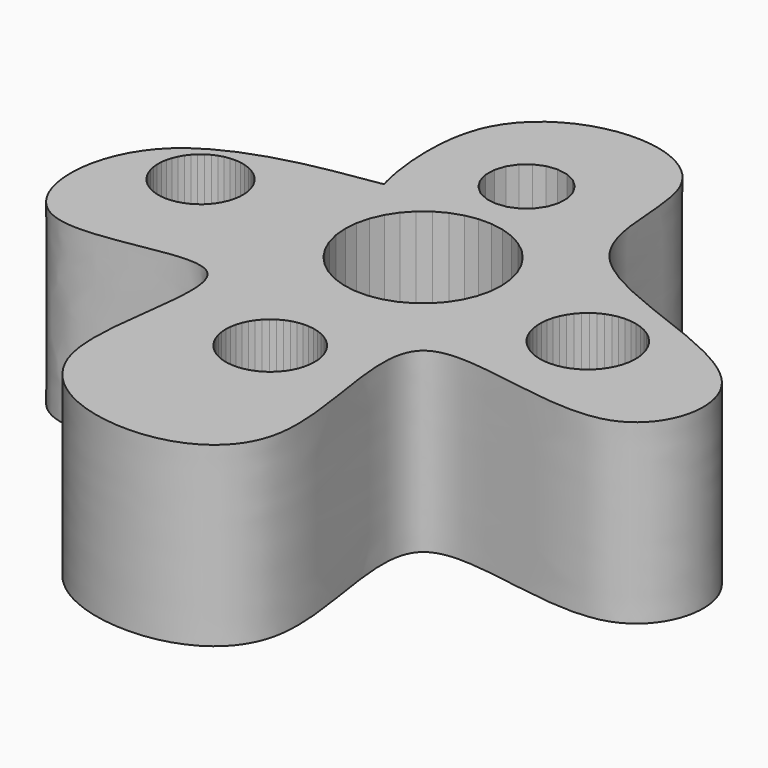
from build123d import *

# Parameters (mm, degrees)
F1_DEPTH = 32


with BuildPart() as f1:
    # F0 (on Top) → F1 (new body)
    with BuildSketch(Plane.XY):
        with BuildLine():
            add(Edge.make_bspline(
                [(-18.3749999851, 57.6249994338), (-21.1831112371, 50.0456273998), (-18.7971444727, 37.1581841171), (-17.5061854593, 35.726676673), (-57.502726792, 33.9018894006), (-56.1661655163, -11.168143715), (-9.6621938549, 11.8468057403), (-28.8025759983, -35.5355459374), (-0.0568739022, -48.575044984), (25.5787575912, -36.4487214325), (4.8135252466, 13.1183929517), (55.6634166462, -9.8868816763), (65.4802924601, 26.023571664), (11.4290052202, 31.7559795515), (19.7947783962, 63.7423600931), (-0.3893997894, 72.9518543158), (-15.4870740222, 65.4197993242), (-18.3749999851, 57.6249994338)],
                knots=[0, 0, 0, 0, 0.0628236558, 0.072575789, 0.1509051716, 0.2210611224, 0.2940393321, 0.3709934558, 0.4391768774, 0.5028610105, 0.5816361985, 0.6620542764, 0.7224552393, 0.8115589345, 0.8787111474, 0.9353907127, 1, 1, 1, 1], degree=3))
        make_face()
        Polygon((1.5020144703, -19.998836884), (0.5033173619, -20.1250016689), (-0.5033173619, -20.1250016689), (-1.5020144703, -19.998836884), (-2.4770239133, -19.7484970081), (-3.4129692094, -19.3779300506), (-4.2950899423, -18.8929800739), (-5.1094745411, -18.3012950288), (-5.843279674, -17.6122061418), (-6.4849327959, -16.8365807565), (-7.0243146537, -15.9866509483), (-7.4529188733, -15.0758206182), (-7.7639861101, -14.1184541045), (-7.952610648, -13.1296496491), (-8.0158177653, -12.125001289), (-7.952610648, -11.1203529288), (-7.7639861101, -10.1315484734), (-7.4529188733, -9.1741819597), (-7.0243146537, -8.2633516296), (-6.4849327959, -7.4134218214), (-5.843279674, -6.6377964361), (-5.1094745411, -5.9487075491), (-4.2950899423, -5.357022504), (-3.4129692094, -4.8720725273), (-2.4770239133, -4.5015055698), (-1.5020144703, -4.2511656939), (-0.5033173619, -4.125000909), (0.5033173619, -4.125000909), (1.5020144703, -4.2511656939), (2.4770239133, -4.5015055698), (3.4129692094, -4.8720725273), (4.2950899423, -5.357022504), (5.1094745411, -5.9487075491), (5.843279674, -6.6377964361), (6.4849327959, -7.4134218214), (7.0243146537, -8.2633516296), (7.4529188733, -9.1741819597), (7.7639861101, -10.1315484734), (7.952610648, -11.1203529288), (8.0158177653, -12.125001289), (7.952610648, -13.1296496491), (7.7639861101, -14.1184541045), (7.4529188733, -15.0758206182), (7.0243146537, -15.9866509483), (6.4849327959, -16.8365807565), (5.843279674, -17.6122061418), (5.1094745411, -18.3012950288), (4.2950899423, -18.8929800739), (3.4129692094, -19.3779300506), (2.4770239133, -19.7484970081), align=None, mode=Mode.SUBTRACT)
        Polygon((-31.9221387459, 19.7365742792), (-32.1862562673, 18.8154026109), (-32.5637445671, 17.9345973593), (-33.0486504292, 17.1080493495), (-33.6333265985, 16.3487937373), (-34.3085523826, 15.6688044373), (-35.0636790674, 15.0788052869), (-35.8867978541, 14.5881009251), (-36.7649276677, 14.204430053), (-37.6842198764, 13.9338433893), (-38.6301766931, 13.7806082475), (-39.5878798135, 13.7471412371), (-40.5422256874, 13.8339701529), (-41.4781637102, 14.0397256512), (-42.3809335802, 14.3611628447), (-43.2362980774, 14.7932124768), (-44.0307675925, 15.3290608669), (-44.7518128667, 15.9602573657), (-45.3880625855, 16.6768476274), (-45.9294827105, 17.4675305954), (-46.367534723, 18.319836727), (-46.695310281, 19.2203246453), (-46.9076401684, 20.1547931181), (-47.0011758157, 21.1085050192), (-46.9744421101, 22.0664197422), (-46.8278606581, 23.0134303998), (-46.5637431366, 23.9346020681), (-46.1862548368, 24.8154073196), (-45.7013489747, 25.6419553295), (-45.1166728054, 26.4012109417), (-44.4414470214, 27.0812002417), (-43.6863203365, 27.6711993921), (-42.8632015498, 28.1619037538), (-41.9850717363, 28.545574626), (-41.0657795275, 28.8161612896), (-40.1198227109, 28.9693964315), (-39.1621195905, 29.0028634419), (-38.2077737166, 28.916034526), (-37.2718356938, 28.7102790278), (-36.3690658237, 28.3888418343), (-35.5137013266, 27.9567922021), (-34.7192318115, 27.420943812), (-33.9981865372, 26.7897473132), (-33.3619368185, 26.0731570516), (-32.8205166935, 25.2824740836), (-32.382464681, 24.430167952), (-32.0546891229, 23.5296800336), (-31.8423592356, 22.5952115609), (-31.7488235882, 21.6414996598), (-31.7755572938, 20.6835849367), align=None, mode=Mode.SUBTRACT)
        Polygon((3.4485760188, 8.7568837759), (1.1600732645, 8.3750002086), (-1.1600732645, 8.3750002086), (-3.4485760188, 8.7568837759), (-5.6430106091, 9.5102341224), (-7.6835185803, 10.6145018143), (-9.514440194, 12.0395653076), (-11.0858326815, 13.7465525852), (-12.3548325521, 15.6889014839), (-13.2868247973, 17.813629789), (-13.8563870982, 20.0627804512), (-14.0479832799, 22.3750025034), (-13.8563870982, 24.6872245556), (-13.2868247973, 26.9363752178), (-12.3548325521, 29.0611035229), (-11.0858326815, 31.0034524216), (-9.514440194, 32.7104396992), (-7.6835185803, 34.1355031925), (-5.6430106091, 35.2397708844), (-3.4485760188, 35.9931212309), (-1.1600732645, 36.3750047982), (1.1600732645, 36.3750047982), (3.4485760188, 35.9931212309), (5.6430106091, 35.2397708844), (7.6835185803, 34.1355031925), (9.514440194, 32.7104396992), (11.0858326815, 31.0034524216), (12.3548325521, 29.0611035229), (13.2868247973, 26.9363752178), (13.8563870982, 24.6872245556), (14.0479832799, 22.3750025034), (13.8563870982, 20.0627804512), (13.2868247973, 17.813629789), (12.3548325521, 15.6889014839), (11.0858326815, 13.7465525852), (9.514440194, 12.0395653076), (7.6835185803, 10.6145018143), (5.6430106091, 9.5102341224), align=None, mode=Mode.SUBTRACT)
        Polygon((1.6902665054, 54.0046541124), (3.1217773151, 52.701728343), (4.1282252702, 51.0482770215), (4.6280739431, 49.1782529406), (4.5808285669, 47.2431543298), (3.990316681, 45.3997513702), (2.9043780466, 43.7973856063), (1.4109889534, 42.5658711828), (-0.3688650956, 41.8049780741), (-2.2909909108, 41.5763493147), (-4.1996692898, 41.8985070469), (-5.9402704617, 42.7453519673), (-7.3717812714, 44.0482777367), (-8.3782292265, 45.7017290582), (-8.8780778993, 47.5717531391), (-8.8308325231, 49.5068517499), (-8.2403206373, 51.3502547095), (-7.1543820029, 52.9526204733), (-5.6609929097, 54.1841348969), (-3.8811388606, 54.9450280056), (-1.9590130455, 55.173656765), (-0.0503346665, 54.8514990328), align=None, mode=Mode.SUBTRACT)
        Polygon((33.213381419, 8.2857290908), (32.1440486246, 8.4677141971), (31.1059566206, 8.7822872334), (30.1154767379, 9.2244871949), (29.1882294359, 9.7873403241), (28.3388379586, 10.461970091), (27.580697717, 11.2377371811), (26.9257650354, 12.1024072839), (26.3843685937, 13.0423440354), (25.965046537, 14.0427240716), (25.6744118247, 15.0877708017), (25.5170479398, 16.1610032144), (25.4954366048, 17.2454957936), (25.6099186434, 18.3241454433), (25.8586886054, 19.3799412143), (26.2378232399, 20.3962325766), (26.7413433672, 21.3569920082), (27.3613081742, 22.247067759), (28.0879404454, 23.0524228027), (28.909780756, 23.7603562091), (29.8138681932, 24.3597034456), (30.7859447581, 24.8410124482), (31.8106802226, 25.1966926864), (32.8719138963, 25.4211348704), (33.9529094901, 25.5107994128), (35.0366190578, 25.4642722503), (36.1059518522, 25.282287144), (37.1440438563, 24.9677141077), (38.134523739, 24.5255141462), (39.0617710409, 23.962661017), (39.9111625182, 23.2880312501), (40.6693027599, 22.51226416), (41.3242354414, 21.6475940572), (41.8656318832, 20.7076573057), (42.2849539399, 19.7072772695), (42.5755886522, 18.6622305394), (42.732952537, 17.5889981267), (42.754563872, 16.5045055475), (42.6400818334, 15.4258558978), (42.3913118715, 14.3700601268), (42.012177237, 13.3537687645), (41.5086571096, 12.3930093329), (40.8886923027, 11.5029335821), (40.1620600314, 10.6975785384), (39.3402197208, 9.989645132), (38.4361322836, 9.3902978955), (37.4640557187, 8.9089888929), (36.4393202542, 8.5533086547), (35.3780865806, 8.3288664707), (34.2970909867, 8.2392019283), align=None, mode=Mode.SUBTRACT)
        with BuildLine():
            add(Edge.make_bspline(
                [(-18.3749999851, 57.6249994338), (-21.1831112371, 50.0456273998), (-18.7971444727, 37.1581841171), (-17.5061854593, 35.726676673), (-57.502726792, 33.9018894006), (-56.1661655163, -11.168143715), (-9.6621938549, 11.8468057403), (-28.8025759983, -35.5355459374), (-0.0568739022, -48.575044984), (25.5787575912, -36.4487214325), (4.8135252466, 13.1183929517), (55.6634166462, -9.8868816763), (65.4802924601, 26.023571664), (11.4290052202, 31.7559795515), (19.7947783962, 63.7423600931), (-0.3893997894, 72.9518543158), (-15.4870740222, 65.4197993242), (-18.3749999851, 57.6249994338)],
                knots=[0, 0, 0, 0, 0.0628236558, 0.072575789, 0.1509051716, 0.2210611224, 0.2940393321, 0.3709934558, 0.4391768774, 0.5028610105, 0.5816361985, 0.6620542764, 0.7224552393, 0.8115589345, 0.8787111474, 0.9353907127, 1, 1, 1, 1], degree=3))
        make_face()
        Polygon((1.5020144703, -19.998836884), (0.5033173619, -20.1250016689), (-0.5033173619, -20.1250016689), (-1.5020144703, -19.998836884), (-2.4770239133, -19.7484970081), (-3.4129692094, -19.3779300506), (-4.2950899423, -18.8929800739), (-5.1094745411, -18.3012950288), (-5.843279674, -17.6122061418), (-6.4849327959, -16.8365807565), (-7.0243146537, -15.9866509483), (-7.4529188733, -15.0758206182), (-7.7639861101, -14.1184541045), (-7.952610648, -13.1296496491), (-8.0158177653, -12.125001289), (-7.952610648, -11.1203529288), (-7.7639861101, -10.1315484734), (-7.4529188733, -9.1741819597), (-7.0243146537, -8.2633516296), (-6.4849327959, -7.4134218214), (-5.843279674, -6.6377964361), (-5.1094745411, -5.9487075491), (-4.2950899423, -5.357022504), (-3.4129692094, -4.8720725273), (-2.4770239133, -4.5015055698), (-1.5020144703, -4.2511656939), (-0.5033173619, -4.125000909), (0.5033173619, -4.125000909), (1.5020144703, -4.2511656939), (2.4770239133, -4.5015055698), (3.4129692094, -4.8720725273), (4.2950899423, -5.357022504), (5.1094745411, -5.9487075491), (5.843279674, -6.6377964361), (6.4849327959, -7.4134218214), (7.0243146537, -8.2633516296), (7.4529188733, -9.1741819597), (7.7639861101, -10.1315484734), (7.952610648, -11.1203529288), (8.0158177653, -12.125001289), (7.952610648, -13.1296496491), (7.7639861101, -14.1184541045), (7.4529188733, -15.0758206182), (7.0243146537, -15.9866509483), (6.4849327959, -16.8365807565), (5.843279674, -17.6122061418), (5.1094745411, -18.3012950288), (4.2950899423, -18.8929800739), (3.4129692094, -19.3779300506), (2.4770239133, -19.7484970081), align=None, mode=Mode.SUBTRACT)
        Polygon((-31.9221387459, 19.7365742792), (-32.1862562673, 18.8154026109), (-32.5637445671, 17.9345973593), (-33.0486504292, 17.1080493495), (-33.6333265985, 16.3487937373), (-34.3085523826, 15.6688044373), (-35.0636790674, 15.0788052869), (-35.8867978541, 14.5881009251), (-36.7649276677, 14.204430053), (-37.6842198764, 13.9338433893), (-38.6301766931, 13.7806082475), (-39.5878798135, 13.7471412371), (-40.5422256874, 13.8339701529), (-41.4781637102, 14.0397256512), (-42.3809335802, 14.3611628447), (-43.2362980774, 14.7932124768), (-44.0307675925, 15.3290608669), (-44.7518128667, 15.9602573657), (-45.3880625855, 16.6768476274), (-45.9294827105, 17.4675305954), (-46.367534723, 18.319836727), (-46.695310281, 19.2203246453), (-46.9076401684, 20.1547931181), (-47.0011758157, 21.1085050192), (-46.9744421101, 22.0664197422), (-46.8278606581, 23.0134303998), (-46.5637431366, 23.9346020681), (-46.1862548368, 24.8154073196), (-45.7013489747, 25.6419553295), (-45.1166728054, 26.4012109417), (-44.4414470214, 27.0812002417), (-43.6863203365, 27.6711993921), (-42.8632015498, 28.1619037538), (-41.9850717363, 28.545574626), (-41.0657795275, 28.8161612896), (-40.1198227109, 28.9693964315), (-39.1621195905, 29.0028634419), (-38.2077737166, 28.916034526), (-37.2718356938, 28.7102790278), (-36.3690658237, 28.3888418343), (-35.5137013266, 27.9567922021), (-34.7192318115, 27.420943812), (-33.9981865372, 26.7897473132), (-33.3619368185, 26.0731570516), (-32.8205166935, 25.2824740836), (-32.382464681, 24.430167952), (-32.0546891229, 23.5296800336), (-31.8423592356, 22.5952115609), (-31.7488235882, 21.6414996598), (-31.7755572938, 20.6835849367), align=None, mode=Mode.SUBTRACT)
        Polygon((3.4485760188, 8.7568837759), (1.1600732645, 8.3750002086), (-1.1600732645, 8.3750002086), (-3.4485760188, 8.7568837759), (-5.6430106091, 9.5102341224), (-7.6835185803, 10.6145018143), (-9.514440194, 12.0395653076), (-11.0858326815, 13.7465525852), (-12.3548325521, 15.6889014839), (-13.2868247973, 17.813629789), (-13.8563870982, 20.0627804512), (-14.0479832799, 22.3750025034), (-13.8563870982, 24.6872245556), (-13.2868247973, 26.9363752178), (-12.3548325521, 29.0611035229), (-11.0858326815, 31.0034524216), (-9.514440194, 32.7104396992), (-7.6835185803, 34.1355031925), (-5.6430106091, 35.2397708844), (-3.4485760188, 35.9931212309), (-1.1600732645, 36.3750047982), (1.1600732645, 36.3750047982), (3.4485760188, 35.9931212309), (5.6430106091, 35.2397708844), (7.6835185803, 34.1355031925), (9.514440194, 32.7104396992), (11.0858326815, 31.0034524216), (12.3548325521, 29.0611035229), (13.2868247973, 26.9363752178), (13.8563870982, 24.6872245556), (14.0479832799, 22.3750025034), (13.8563870982, 20.0627804512), (13.2868247973, 17.813629789), (12.3548325521, 15.6889014839), (11.0858326815, 13.7465525852), (9.514440194, 12.0395653076), (7.6835185803, 10.6145018143), (5.6430106091, 9.5102341224), align=None, mode=Mode.SUBTRACT)
        Polygon((1.6902665054, 54.0046541124), (3.1217773151, 52.701728343), (4.1282252702, 51.0482770215), (4.6280739431, 49.1782529406), (4.5808285669, 47.2431543298), (3.990316681, 45.3997513702), (2.9043780466, 43.7973856063), (1.4109889534, 42.5658711828), (-0.3688650956, 41.8049780741), (-2.2909909108, 41.5763493147), (-4.1996692898, 41.8985070469), (-5.9402704617, 42.7453519673), (-7.3717812714, 44.0482777367), (-8.3782292265, 45.7017290582), (-8.8780778993, 47.5717531391), (-8.8308325231, 49.5068517499), (-8.2403206373, 51.3502547095), (-7.1543820029, 52.9526204733), (-5.6609929097, 54.1841348969), (-3.8811388606, 54.9450280056), (-1.9590130455, 55.173656765), (-0.0503346665, 54.8514990328), align=None, mode=Mode.SUBTRACT)
        Polygon((33.213381419, 8.2857290908), (32.1440486246, 8.4677141971), (31.1059566206, 8.7822872334), (30.1154767379, 9.2244871949), (29.1882294359, 9.7873403241), (28.3388379586, 10.461970091), (27.580697717, 11.2377371811), (26.9257650354, 12.1024072839), (26.3843685937, 13.0423440354), (25.965046537, 14.0427240716), (25.6744118247, 15.0877708017), (25.5170479398, 16.1610032144), (25.4954366048, 17.2454957936), (25.6099186434, 18.3241454433), (25.8586886054, 19.3799412143), (26.2378232399, 20.3962325766), (26.7413433672, 21.3569920082), (27.3613081742, 22.247067759), (28.0879404454, 23.0524228027), (28.909780756, 23.7603562091), (29.8138681932, 24.3597034456), (30.7859447581, 24.8410124482), (31.8106802226, 25.1966926864), (32.8719138963, 25.4211348704), (33.9529094901, 25.5107994128), (35.0366190578, 25.4642722503), (36.1059518522, 25.282287144), (37.1440438563, 24.9677141077), (38.134523739, 24.5255141462), (39.0617710409, 23.962661017), (39.9111625182, 23.2880312501), (40.6693027599, 22.51226416), (41.3242354414, 21.6475940572), (41.8656318832, 20.7076573057), (42.2849539399, 19.7072772695), (42.5755886522, 18.6622305394), (42.732952537, 17.5889981267), (42.754563872, 16.5045055475), (42.6400818334, 15.4258558978), (42.3913118715, 14.3700601268), (42.012177237, 13.3537687645), (41.5086571096, 12.3930093329), (40.8886923027, 11.5029335821), (40.1620600314, 10.6975785384), (39.3402197208, 9.989645132), (38.4361322836, 9.3902978955), (37.4640557187, 8.9089888929), (36.4393202542, 8.5533086547), (35.3780865806, 8.3288664707), (34.2970909867, 8.2392019283), align=None, mode=Mode.SUBTRACT)
    extrude(amount=F1_DEPTH)


solid = f1.part
